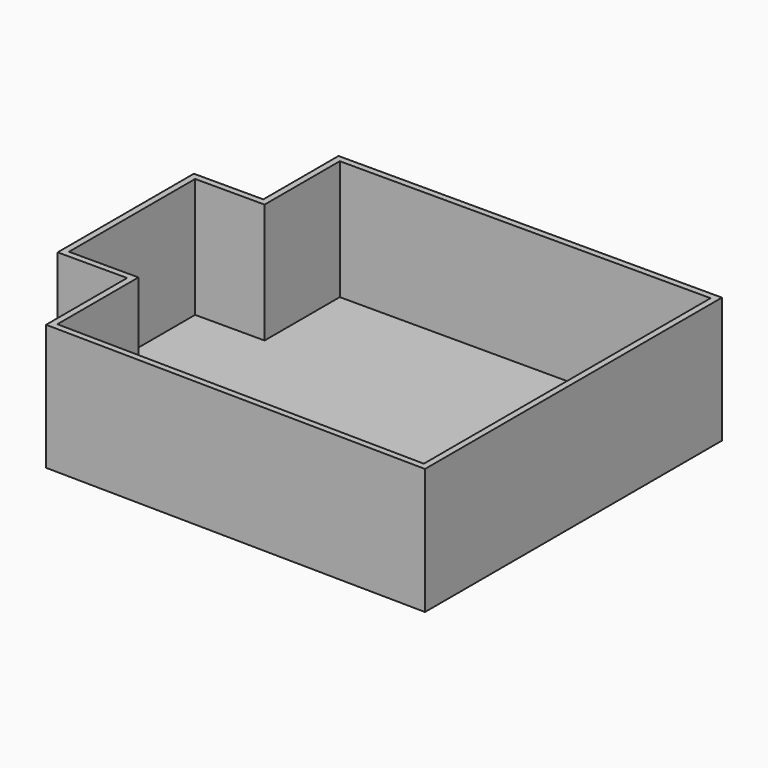
from build123d import *

# Parameters (mm, degrees)
F1_DEPTH = 50.8
F2_T     = -2.54


with BuildPart() as f1:
    # F0 (on Top) → F1 (new body)
    with BuildSketch(Plane.XY):
        Polygon((-73.8182216883, -73.9789456129), (80.8186382055, -76.2355923653), (80.8186382055, 73.4519436955), (-73.8182216883, 73.4519436955), (-73.8182216883, 35.5419069529), (-101.8309593201, 35.5419069529), (-101.8309593201, -33.1313610077), (-73.8182216883, -33.1313610077), align=None)
    extrude(amount=F1_DEPTH)

    # F2
    f2_openings = [f1.faces().sort_by_distance(p)[0] for p in [
        (-3.375753, -0.671898, 50.8),
    ]]
    offset(amount=F2_T, openings=f2_openings, kind=Kind.INTERSECTION)


solid = f1.part
